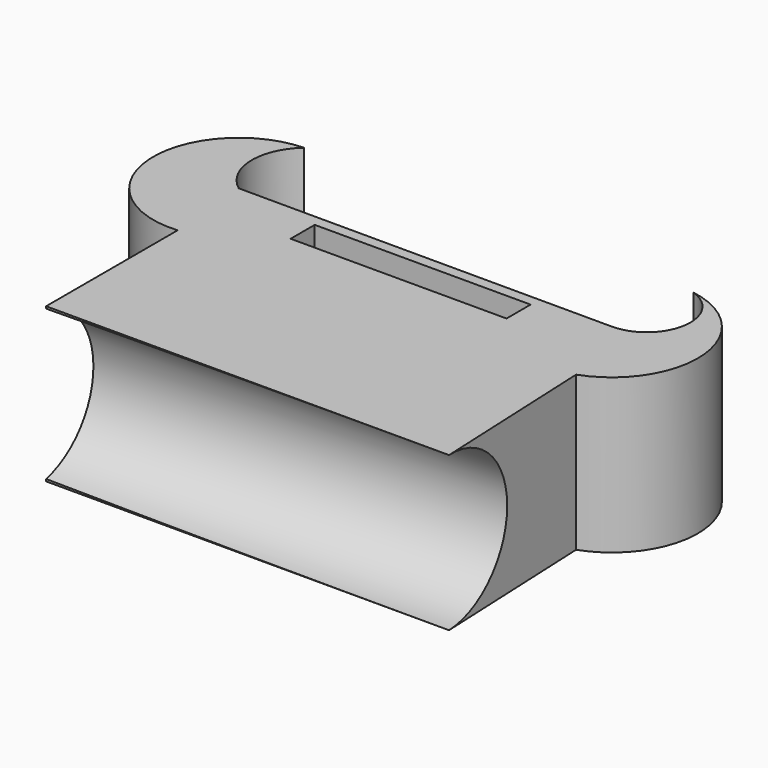
from build123d import *

# Parameters (mm, degrees)
F1_DEPTH = 38.1
F3_DEPTH = 152.4
F4_W     = 53.3399991691
F4_H     = 7.4427900836
F5_DEPTH = 152.4


with BuildPart() as f1:
    # F0 (on Top) → F1 (new body)
    with BuildSketch(Plane.XY):
        with BuildLine():
            ThreePointArc((-47.6478643498, -0.3401276624), (-53.0503273428, 10.0446370996), (-48.3781397343, 20.7777917385))
            ThreePointArc((-48.3781397343, 20.7777917385), (-68.74194328, -1.5809564376), (-45.8972081542, -21.3980246335))
            Line((-45.8972081542, -21.3980246335), (-45.8972081542, -62.0232559741))
            Line((-45.8972081542, -62.0232559741), (53.6501146853, -62.0232559741))
            Line((53.6501146853, -62.0232559741), (51.7894178629, -20.4676743597))
            ThreePointArc((51.7894178629, -20.4676743597), (65.7973197018, 1.4426008353), (48.0680204928, 20.4676743597))
            ThreePointArc((48.0680204928, 20.4676743597), (55.2873850052, 8.5442586778), (44.6631883311, -0.4786848838))
            Line((44.6631883311, -0.4786848838), (-47.6478643498, -0.3401276624))
        make_face()
    extrude(amount=F1_DEPTH)

    # F2 (on face) → F3 (cut)
    with BuildSketch(Plane(origin=(50.7711641994, 2.2733346575, 0), x_dir=(-0.0447312803, 0.9989990553, 0), z_dir=(0.9989990553, 0.0447312803, 0))):
        with BuildLine():
            Line((-64.3610124434, 38.1), (-64.3610124434, 0))
            ThreePointArc((-64.3610124434, 0), (-45.3110124434, 19.05), (-64.3610124434, 38.1))
        make_face()
    extrude(amount=-F3_DEPTH, mode=Mode.SUBTRACT)

    # F4 (on face) → F5 (cut)
    with BuildSketch(Plane.XY.offset(38.1)):
        with Locations((0, -6.8225585856)):
            Rectangle(F4_W, F4_H)
    extrude(amount=-F5_DEPTH, mode=Mode.SUBTRACT)


solid = f1.part
